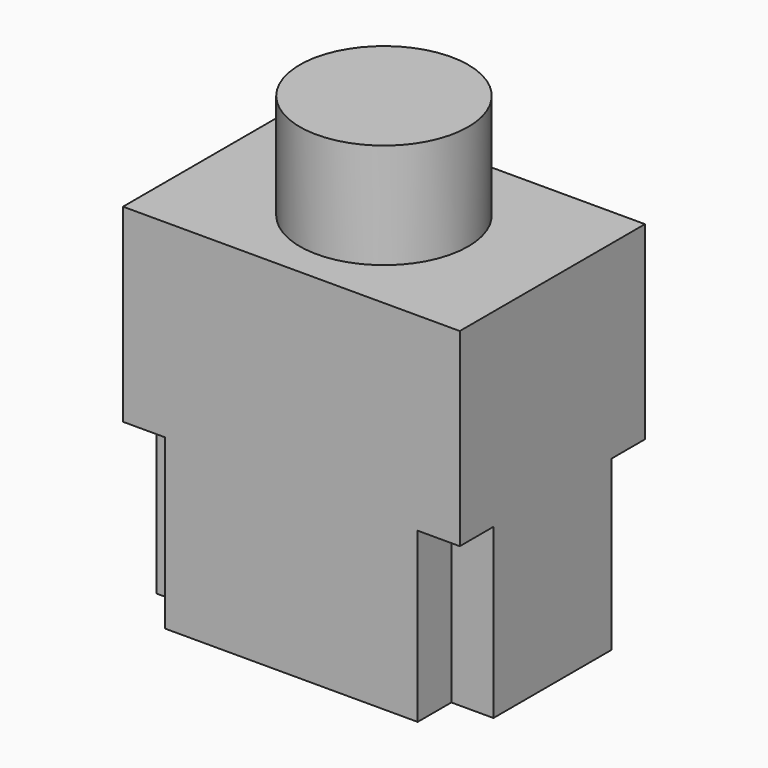
from build123d import *

# Parameters (mm, degrees)
BOX004_W       = 1
BOX004_H       = 3.5
BOX004_DEPTH   = 4
BOX005_W       = 1
BOX005_H       = 3.5
BOX005_DEPTH   = 4
CYLINDER_R     = 2
CYLINDER_DEPTH = 3
BOX006_W       = 6
BOX006_H       = 1
BOX006_DEPTH   = 4
BOX007_W       = 6
BOX007_H       = 1
BOX007_DEPTH   = 4
BOX003_W       = 8
BOX003_H       = 5.5
BOX003_DEPTH   = 4.5


with BuildPart() as cube001:
    # Box004 → Box004 (new body)
    with BuildSketch(Plane(origin=(11, 13, 5), x_dir=(1, 0, 0), z_dir=(0, 0, 1))):
        with Locations((0.5, 1.75)):
            Rectangle(BOX004_W, BOX004_H)
    extrude(amount=BOX004_DEPTH)


with BuildPart() as cube002:
    # Box005 → Box005 (new body)
    with BuildSketch(Plane(origin=(18, 13, 5), x_dir=(1, 0, 0), z_dir=(0, 0, 1))):
        with Locations((0.5, 1.75)):
            Rectangle(BOX005_W, BOX005_H)
    extrude(amount=BOX005_DEPTH)


with BuildPart() as cylinder:
    # Cylinder → Cylinder (new body)
    with BuildSketch(Plane(origin=(15, 14.75, 13), x_dir=(1, 0, 0), z_dir=(0, 0, 1))):
        Circle(CYLINDER_R)
    extrude(amount=CYLINDER_DEPTH)


with BuildPart() as cube003:
    # Box006 → Box006 (new body)
    with BuildSketch(Plane(origin=(12, 12, 5), x_dir=(1, 0, 0), z_dir=(0, 0, 1))):
        with Locations((3, 0.5)):
            Rectangle(BOX006_W, BOX006_H)
    extrude(amount=BOX006_DEPTH)


with BuildPart() as cube004:
    # Box007 → Box007 (new body)
    with BuildSketch(Plane(origin=(12, 16.5, 5), x_dir=(1, 0, 0), z_dir=(0, 0, 1))):
        with Locations((3, 0.5)):
            Rectangle(BOX007_W, BOX007_H)
    extrude(amount=BOX007_DEPTH)


with BuildPart() as bt_ex001:
    # Box003 → Box003 (new body)
    with BuildSketch(Plane(origin=(11, 12, 9), x_dir=(1, 0, 0), z_dir=(0, 0, 1))):
        with Locations((4, 2.75)):
            Rectangle(BOX003_W, BOX003_H)
    extrude(amount=BOX003_DEPTH)

    # Fusion: union Cube001, Cube002, Cylinder, Cube003, Cube004
    add(cube001.part)
    add(cube002.part)
    add(cylinder.part)
    add(cube003.part)
    add(cube004.part)


solid = bt_ex001.part
